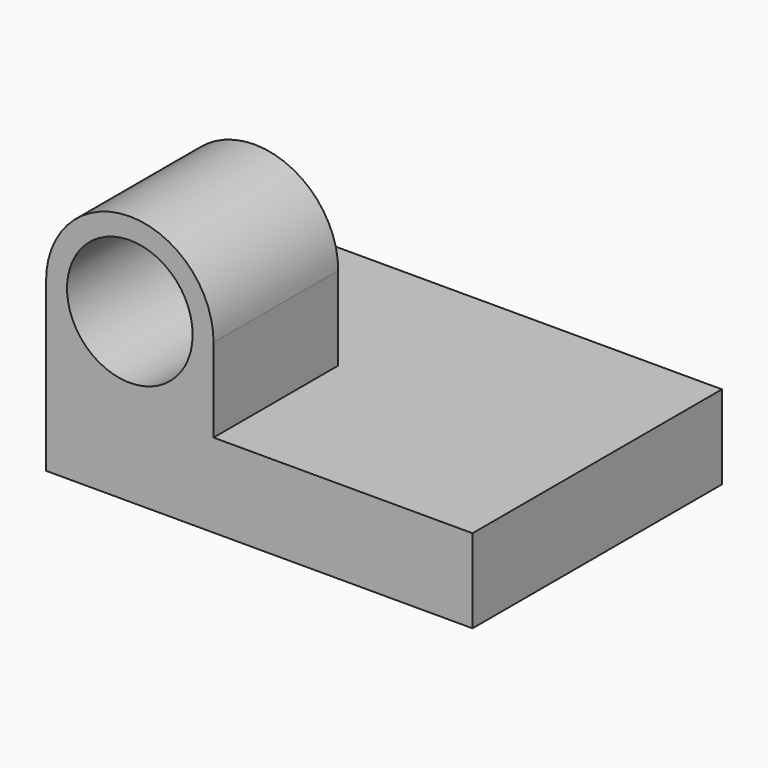
from build123d import *

# Parameters (mm, degrees)
F0_W     = 129.356236
F0_H     = 94.549194
F1_DEPTH = 25.4
F2_R     = 19.05
F3_DEPTH = 47.274597


with BuildPart() as f1:
    # F0 (on Top) → F1 (new body)
    with BuildSketch(Plane.XY):
        Rectangle(F0_W, F0_H)
    extrude(amount=F1_DEPTH)

    # F2 (on Front) → F3 (join, through all)
    with BuildSketch(Plane.XZ):
        with BuildLine():
            Line((-13.878118, 25.4), (-13.878118, 50.8))
            ThreePointArc((-13.878118, 50.8), (-39.278118, 76.2), (-64.678118, 50.8))
            Line((-64.678118, 50.8), (-64.678118, 25.4))
            Line((-64.678118, 25.4), (-13.878118, 25.4))
        make_face()
        with Locations((-39.278118, 50.8)):
            Circle(F2_R, mode=Mode.SUBTRACT)
    extrude(amount=F3_DEPTH)


solid = f1.part
